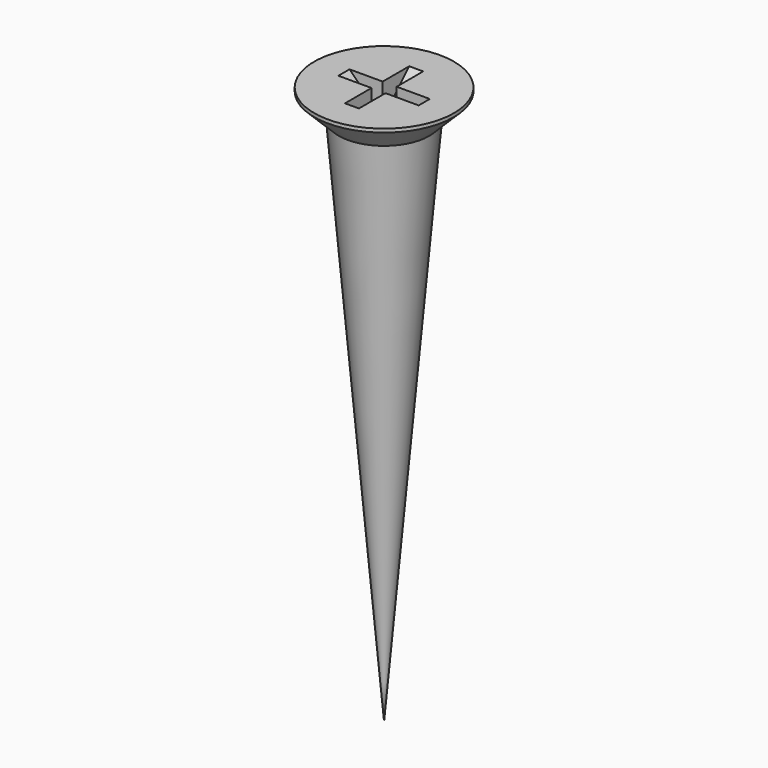
from build123d import *

# Parameters (mm, degrees)
POCKET004_DEPTH       = 0.2
POLARPATTERN003_COUNT = 2
POLARPATTERN003_ANGLE = 90


with BuildPart() as part:
    # Sketch032 → Revolution007 (revolve)
    with BuildSketch(Plane.XZ):
        Polygon((0, 0), (0, -16), (1.3, -0.8), (2, -0.1), (2, 0), align=None)
    revolve(axis=Axis((0, 0, 0), (0, 0, 1)))

    # Sketch033 → Pocket004 (cut, symmetric)
    with BuildSketch(Plane.XZ):
        Polygon((-1.15, 0), (0, -1.15), (1.15, 0), align=None)
    pocket004 = extrude(amount=POCKET004_DEPTH, both=True, mode=Mode.SUBTRACT)

    # PolarPattern003: Pocket004 ×2 about axis
    polarpattern003_axis = Axis((0, 0, 0), (0, 0, 1))
    for i in range(1, POLARPATTERN003_COUNT):
        add(pocket004.rotate(polarpattern003_axis, i * POLARPATTERN003_ANGLE / (POLARPATTERN003_COUNT - 1)), mode=Mode.SUBTRACT)


solid = part.part
